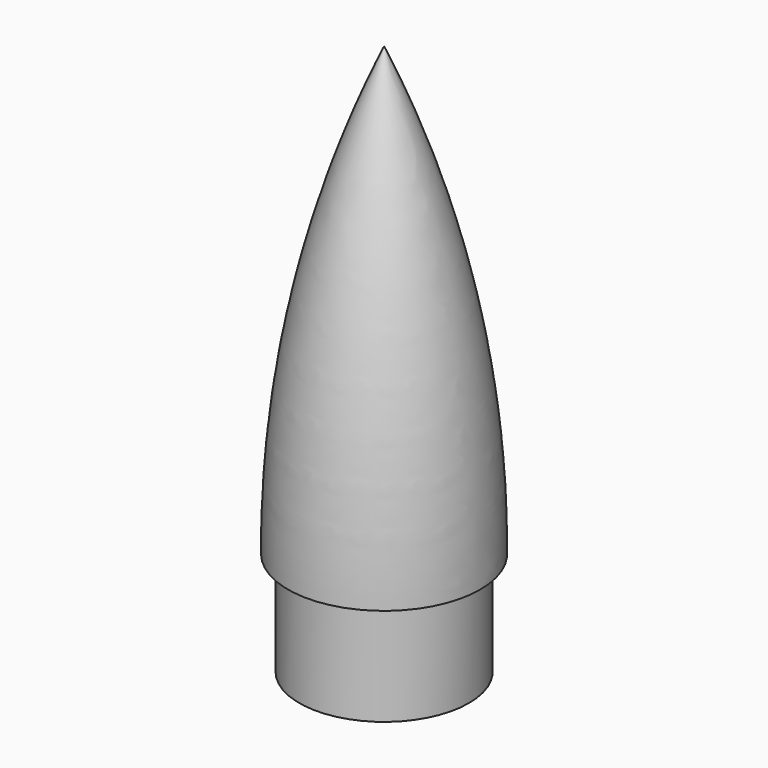
from build123d import *


with BuildPart() as f1:
    # F0 (on Front) → F1 (revolve)
    with BuildSketch(Plane.XZ):
        with BuildLine():
            Line((0, 92.80904), (0, 88.9))
            ThreePointArc((0, 88.9), (10.842822, 54.715249), (14.605, 19.05))
            Line((14.605, 19.05), (12.7, 19.05))
            Line((12.7, 19.05), (12.7, 0))
            Line((12.7, 0), (14.2875, 0))
            Line((14.2875, 0), (14.2875, 17.4625))
            Line((14.2875, 17.4625), (16.191897, 17.4625))
            ThreePointArc((16.191897, 17.4625), (12.189938, 56.015564), (0, 92.80904))
        make_face()
    revolve(axis=Axis((0, 0, 44.45), (0, 0, 1)))


solid = f1.part
